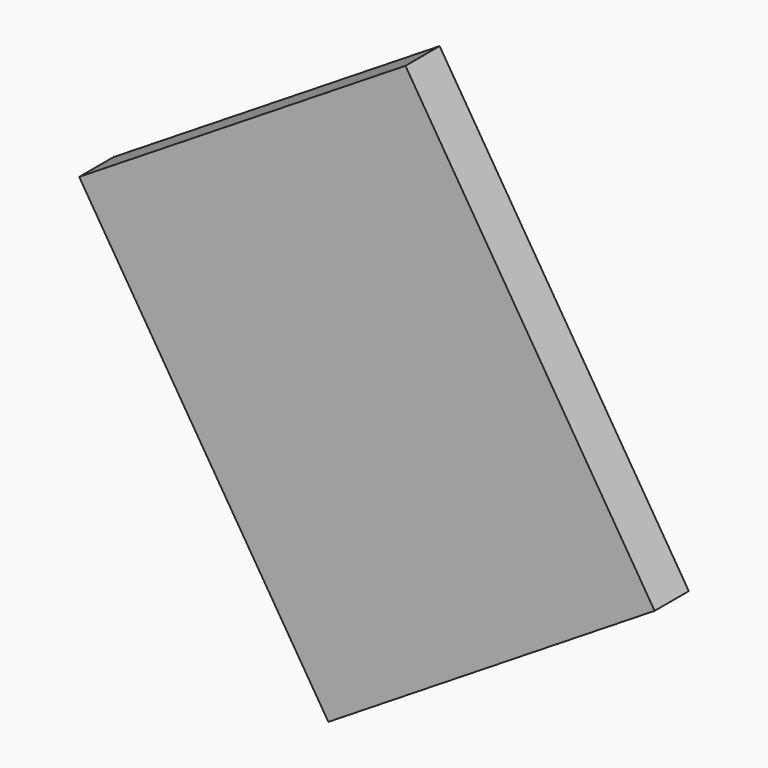
from build123d import *

# Parameters (mm, degrees)
CYLINDER066_R      = 0.5
CYLINDER066_DEPTH  = 0.01
BOX145_W           = 4.5
BOX145_H           = 5.5
BOX145_DEPTH       = 0.5
CUT067_ROLL_ANGLE  = -90
CUT067_PITCH_ANGLE = -32


with BuildPart() as cylinder066:
    # Cylinder066 → Cylinder066 (new body)
    with BuildSketch(Plane(origin=(1, 4.5, 0.49), x_dir=(1, 0, 0), z_dir=(0, 0, 1))):
        Circle(CYLINDER066_R)
    extrude(amount=CYLINDER066_DEPTH)


with BuildPart() as obj1:
    # Box145 → Box145 (new body)
    with BuildSketch(Plane.XY):
        with Locations((2.25, 2.75)):
            Rectangle(BOX145_W, BOX145_H)
    extrude(amount=BOX145_DEPTH)

    # Cut067: cut Cylinder066
    add(cylinder066.part, mode=Mode.SUBTRACT)


with BuildPart() as obj1_1:
    # Cut067 roll: moved
    add(obj1.part.rotate(Axis((0, 0, 0), (1, 0, 0)), CUT067_ROLL_ANGLE))


with BuildPart() as obj1_2:
    # Cut067 pitch: moved
    add(obj1_1.part.rotate(Axis((0, 0, 0), (0, 1, 0)), CUT067_PITCH_ANGLE))


with BuildPart() as obj1_3:
    # Cut067 placement: moved
    add(obj1_2.part.moved(Location((-9.429562, 1.64, 36.957147))))


solid = obj1_3.part
